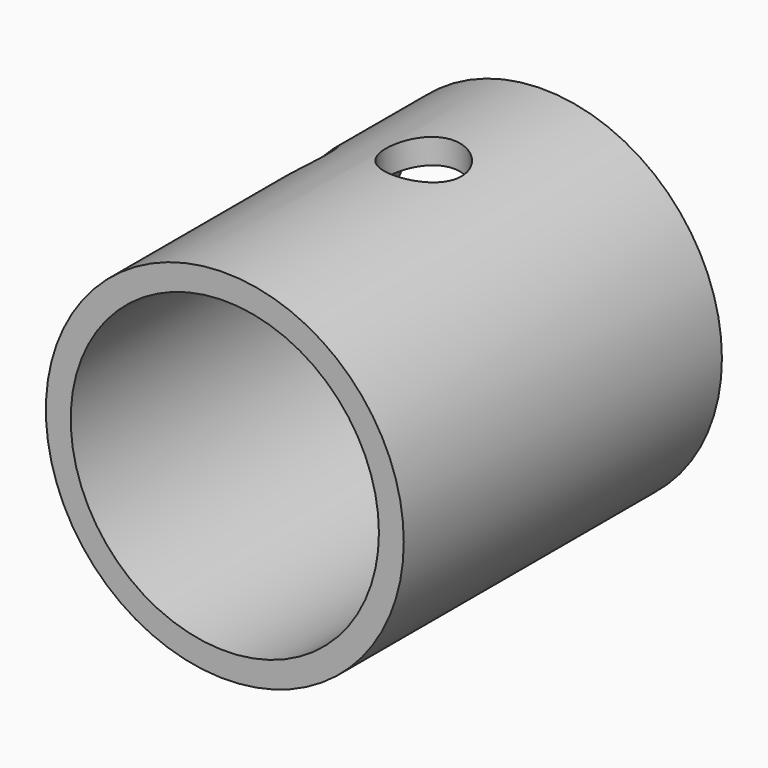
from build123d import *

# Parameters (mm, degrees)
F0_R     = 9
F0_R_2   = 7.75
F1_DEPTH = 20
F4_D     = 3.7973
F4_DEPTH = 3.021
F4_START = 0.20255
F4_TIP   = 1.1408240143
F8_D     = 3.7973
F8_DEPTH = 2
F8_START = 0.20255
F8_TIP   = 1.1408240143


with BuildPart() as f1:
    # F0 (on Front) → F1 (new body)
    with BuildSketch(Plane.XZ):
        Circle(F0_R)
        Circle(F0_R_2, mode=Mode.SUBTRACT)
    extrude(amount=F1_DEPTH)

    # F4
    # its depths count from where the whole tool has entered the part; down to there all is cleared
    with Locations(Plane.XY.offset(9).offset(-F4_START)):
        with Locations((0, -7.5)):
            Hole(F4_D / 2, depth=F4_DEPTH)
            with Locations((0, 0, -(F4_DEPTH + F4_TIP / 2))):  # 118° drill point
                Cone(0, F4_D / 2, F4_TIP, mode=Mode.SUBTRACT)

    # F8
    # its depths count from where the whole tool has entered the part; down to there all is cleared
    with Locations(Plane(origin=(-6.3639610307, 0, 6.3639610307), x_dir=(0, -1, 0), z_dir=(-0.7071067812, 0, 0.7071067812)).offset(-F8_START)):
        with Locations((7.5, 0)):
            Hole(F8_D / 2, depth=F8_DEPTH)
            with Locations((0, 0, -(F8_DEPTH + F8_TIP / 2))):  # 118° drill point
                Cone(0, F8_D / 2, F8_TIP, mode=Mode.SUBTRACT)


solid = f1.part
